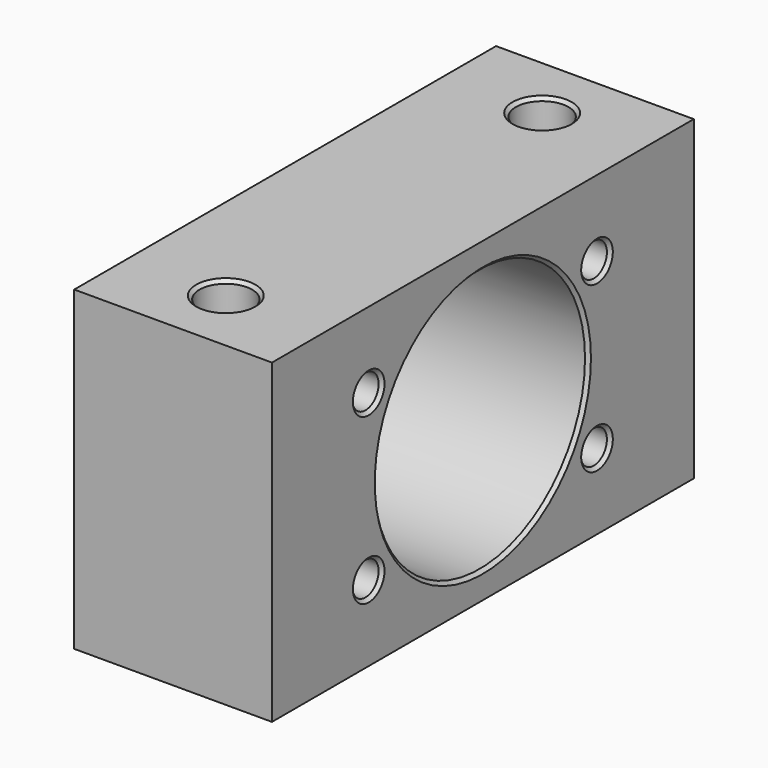
from build123d import *

# Parameters (mm, degrees)
F0_W     = 80
F0_H     = 48
F0_R     = 2.5
F0_R_2   = 20
F1_DEPTH = 30
F2_DEPTH = 10
F3_SIZE  = 0.5
F4_R     = 4
F5_DEPTH = 10
F6_SIZE  = 0.5


with BuildPart() as f1:
    # F0 (on Right) → F1 (new body)
    with BuildSketch(Plane.YZ):
        Rectangle(F0_W, F0_H)
        with Locations((-21.650635, -12.5)):
            Circle(F0_R, mode=Mode.SUBTRACT)
        with Locations((21.650635, -12.5)):
            Circle(F0_R, mode=Mode.SUBTRACT)
        with Locations((-21.650635, 12.5)):
            Circle(F0_R, mode=Mode.SUBTRACT)
        Circle(F0_R_2, mode=Mode.SUBTRACT)
        with Locations((21.650635, 12.5)):
            Circle(F0_R, mode=Mode.SUBTRACT)
        with Locations((-21.650635, 12.5)):
            Circle(F0_R)
        with Locations((-21.650635, -12.5)):
            Circle(F0_R)
        with Locations((21.650635, 12.5)):
            Circle(F0_R)
        with Locations((21.650635, -12.5)):
            Circle(F0_R)
    extrude(amount=-F1_DEPTH)

    # F0 (on Right) → F2 (cut)
    with BuildSketch(Plane.YZ):
        with Locations((-21.650635, 12.5)):
            Circle(F0_R)
        with Locations((21.650635, 12.5)):
            Circle(F0_R)
        with Locations((21.650635, -12.5)):
            Circle(F0_R)
        with Locations((-21.650635, -12.5)):
            Circle(F0_R)
    extrude(amount=-F2_DEPTH, mode=Mode.SUBTRACT)

    # F3
    f3_edges = [f1.edges().sort_by_distance(p)[0] for p in [
        (-15, 20, 0),
        (0, -20, 0),
        (-30, -20, 0),
        (-5, -19.150635, 12.5),
        (0, -24.150635, 12.5),
        (-10, -24.150635, 12.5),
        (-5, -19.150635, -12.5),
        (0, -24.150635, -12.5),
        (-10, -24.150635, -12.5),
        (-5, 24.150635, 12.5),
        (0, 19.150635, 12.5),
        (-10, 19.150635, 12.5),
        (-5, 24.150635, -12.5),
        (0, 19.150635, -12.5),
        (-10, 19.150635, -12.5),
    ]]
    chamfer(f3_edges, length=F3_SIZE)

    # F4 (on face) → F5 (cut)
    with BuildSketch(Plane.XY.offset(24)):
        with Locations((-15, 30)):
            Circle(F4_R)
        with Locations((-15, -30)):
            Circle(F4_R)
    extrude(amount=-F5_DEPTH, mode=Mode.SUBTRACT)

    # F6
    f6_edges = [f1.edges().sort_by_distance(p)[0] for p in [
        (-11, 30, 19),
        (-19, 30, 24),
        (-19, 30, 14),
        (-11, -30, 19),
        (-19, -30, 24),
        (-19, -30, 14),
    ]]
    chamfer(f6_edges, length=F6_SIZE)


solid = f1.part
